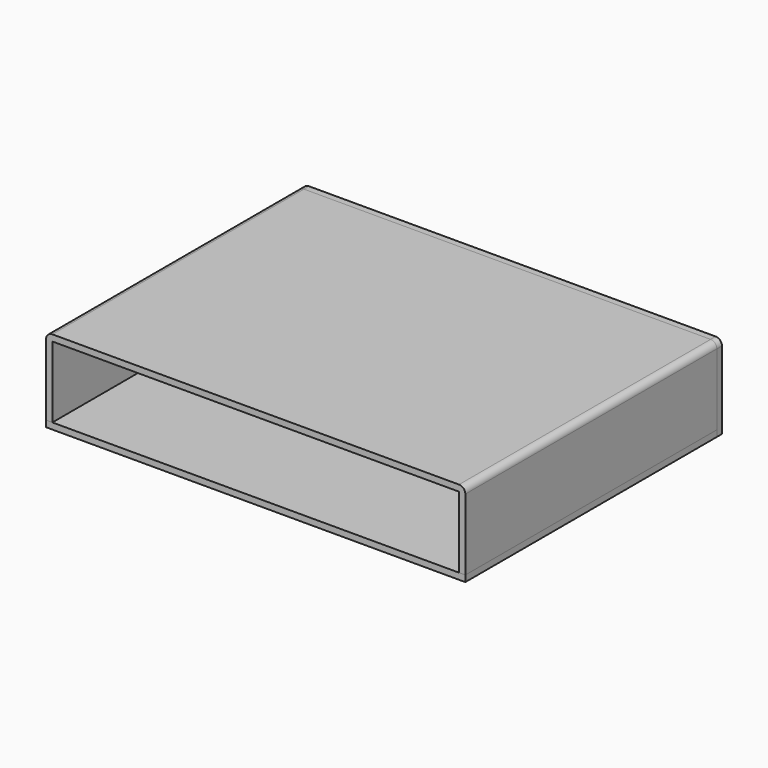
from build123d import *

# Parameters (mm, degrees)
F1_DEPTH      = 75
F1_DEPTH_BACK = 75
F3_W          = 200
F3_H          = 150
F4_DEPTH      = 3
F7_DEPTH      = 3


with BuildPart() as f1:
    # F0 (on Front) → F1 (new body, two sides)
    with BuildSketch(Plane.XZ) as f1_sk:
        with BuildLine():
            ThreePointArc((100, 15.5), (99.12132, 17.62132), (97, 18.5))
            Line((97, 18.5), (-97, 18.5))
            ThreePointArc((-97, 18.5), (-99.12132, 17.62132), (-100, 15.5))
            Line((-100, 15.5), (-100, -18.5))
            Line((-100, -18.5), (-97, -18.5))
            Line((-97, -18.5), (-97, 15.5))
            Line((-97, 15.5), (97, 15.5))
            Line((97, 15.5), (97, -18.5))
            Line((97, -18.5), (100, -18.5))
            Line((100, -18.5), (100, 15.5))
        make_face()
    extrude(amount=F1_DEPTH)
    extrude(f1_sk.sketch, amount=-F1_DEPTH_BACK)


with BuildPart() as f4:
    # F3 (on offset) → F4 (new body)
    with BuildSketch(Plane.XY.offset(-18.5)):
        Rectangle(F3_W, F3_H)
    extrude(amount=-F4_DEPTH)


with BuildPart() as f7:
    # F6 (on offset) → F7 (new body)
    with BuildSketch(Plane.XZ.offset(-75)):
        with BuildLine():
            ThreePointArc((100, 15.5), (99.12132, 17.62132), (97, 18.5))
            Line((97, 18.5), (-97, 18.5))
            ThreePointArc((-97, 18.5), (-99.12132, 17.62132), (-100, 15.5))
            Line((-100, 15.5), (-100, -21.5))
            Line((-100, -21.5), (100, -21.5))
            Line((100, -21.5), (100, 15.5))
        make_face()
    extrude(amount=-F7_DEPTH)


solid = Compound([f1.part, f4.part, f7.part])
